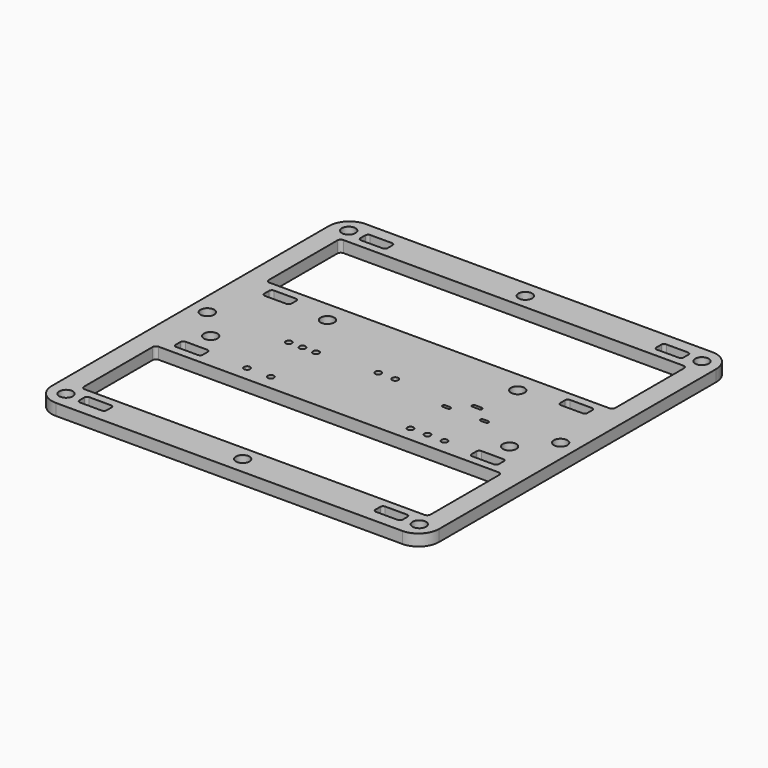
from build123d import *

# Parameters (mm, degrees)
F0_W        = 57
F0_H        = 57
F1_DEPTH    = 1.6
F4_R        = 0.45
F5_R        = 0.45
F6_R        = 0.45
F2_R        = 0.45
F7_DEPTH    = 4
F8_R        = 3
F9_R        = 1
F10_DEPTH   = 25
F12_DEPTH   = 5
F13_W       = 4
F13_H       = 1.7
F14_DEPTH   = 25
F15_R       = 0.4
F1_FACE_R   = 1
F1_FACE_R_2 = 0.45
F16_DEPTH   = 0.1


with BuildPart() as f1:
    # F0 (on Top) → F1 (new body)
    with BuildSketch(Plane.XY):
        with Locations((41.31729, 30.19701)):
            Rectangle(F0_W, F0_H)
    extrude(amount=F1_DEPTH)

    # F4 (on face) + F5 (on face) + F6 (on face) + F3 (on face) + F2 (on face) → F7 (cut)
    with BuildSketch(Plane.XY.offset(1.6)):
        with Locations((51.61729, 22.19701)):
            Circle(F4_R)
        with Locations((56.61729, 22.19701)):
            Circle(F4_R)
        with Locations((54.11729, 22.19701)):
            Circle(F4_R)
    with BuildSketch(Plane.XY.offset(1.6)):
        with Locations((40.06729, 30.69701)):
            Circle(F5_R)
        with Locations((42.56729, 30.69701)):
            Circle(F5_R)
    with BuildSketch(Plane.XY.offset(1.6)):
        with Locations((27.56729, 22.19701)):
            Circle(F6_R)
        with Locations((31.06729, 22.19701)):
            Circle(F6_R)
    with BuildSketch(Plane.XY.offset(1.6)):
        with BuildLine():
            ThreePointArc((53.81729, 31.34701), (53.56729, 31.09701), (53.81729, 30.84701))
            Line((53.81729, 30.84701), (54.81729, 30.84701))
            ThreePointArc((54.81729, 30.84701), (55.06729, 31.09701), (54.81729, 31.34701))
            Line((54.81729, 31.34701), (53.81729, 31.34701))
        make_face()
        with BuildLine():
            ThreePointArc((51.86729, 28.69701), (52.11729, 28.94701), (51.86729, 29.19701))
            Line((51.86729, 29.19701), (51.16729, 29.19701))
            ThreePointArc((51.16729, 29.19701), (50.91729, 28.94701), (51.16729, 28.69701))
            Line((51.16729, 28.69701), (51.86729, 28.69701))
        make_face()
        with BuildLine():
            Line((56.76729, 28.69701), (57.46729, 28.69701))
            ThreePointArc((57.46729, 28.69701), (57.71729, 28.94701), (57.46729, 29.19701))
            Line((57.46729, 29.19701), (56.76729, 29.19701))
            ThreePointArc((56.76729, 29.19701), (56.51729, 28.94701), (56.76729, 28.69701))
        make_face()
    with BuildSketch(Plane.XY.offset(1.6)):
        with Locations((27.31729, 30.19701)):
            Circle(F2_R)
        with Locations((29.31729, 30.19701)):
            Circle(F2_R)
        with Locations((31.31729, 30.19701)):
            Circle(F2_R)
    extrude(amount=-F7_DEPTH, mode=Mode.SUBTRACT)

    # F8
    f8_edges = [f1.edges().sort_by_distance(p)[0] for p in [
        (12.81729, 1.69701, 0.8),
        (69.81729, 1.69701, 0.8),
        (69.81729, 58.69701, 0.8),
        (12.81729, 58.69701, 0.8),
    ]]
    fillet(f8_edges, radius=F8_R)

    # F9 (on face) → F10 (cut)
    with BuildSketch(Plane.XY.offset(1.6)):
        with Locations((63.31729, 25.79701)):
            Circle(F9_R)
        with Locations((19.31729, 25.79701)):
            Circle(F9_R)
        with Locations((55.31729, 37.29701)):
            Circle(F9_R)
        with Locations((27.31729, 37.29701)):
            Circle(F9_R)
        with Locations((15.31729, 56.19701)):
            Circle(F9_R)
        with Locations((67.31729, 56.19701)):
            Circle(F9_R)
        with Locations((15.31729, 4.19701)):
            Circle(F9_R)
        with Locations((67.31729, 4.19701)):
            Circle(F9_R)
        with Locations((41.31729, 56.19701)):
            Circle(F9_R)
        with Locations((41.31729, 4.19701)):
            Circle(F9_R)
        with Locations((15.31729, 30.19701)):
            Circle(F9_R)
        with Locations((67.31729, 30.19701)):
            Circle(F9_R)
    extrude(amount=-F10_DEPTH, mode=Mode.SUBTRACT)

    # F11 (on face) → F12 (cut)
    with BuildSketch(Plane.XY.offset(1.6)):
        with BuildLine():
            ThreePointArc((66.81729, 19.49701), (66.670844, 19.850563), (66.31729, 19.99701))
            Line((66.31729, 19.99701), (16.31729, 19.99701))
            ThreePointArc((16.31729, 19.99701), (15.963737, 19.850563), (15.81729, 19.49701))
            Line((15.81729, 19.49701), (15.81729, 6.89701))
            ThreePointArc((15.81729, 6.89701), (15.963737, 6.543456), (16.31729, 6.39701))
            Line((16.31729, 6.39701), (66.31729, 6.39701))
            ThreePointArc((66.31729, 6.39701), (66.670844, 6.543456), (66.81729, 6.89701))
            Line((66.81729, 6.89701), (66.81729, 19.49701))
        make_face()
        with BuildLine():
            ThreePointArc((16.31729, 53.99701), (15.963737, 53.850563), (15.81729, 53.49701))
            Line((15.81729, 53.49701), (15.81729, 40.89701))
            ThreePointArc((15.81729, 40.89701), (15.963737, 40.543456), (16.31729, 40.39701))
            Line((16.31729, 40.39701), (66.31729, 40.39701))
            ThreePointArc((66.31729, 40.39701), (66.670844, 40.543456), (66.81729, 40.89701))
            Line((66.81729, 40.89701), (66.81729, 53.49701))
            ThreePointArc((66.81729, 53.49701), (66.670844, 53.850563), (66.31729, 53.99701))
            Line((66.31729, 53.99701), (16.31729, 53.99701))
        make_face()
    extrude(amount=-F12_DEPTH, mode=Mode.SUBTRACT)

    # F13 (on face) → F14 (cut)
    with BuildSketch(Plane.XY.offset(1.6)):
        with Locations((19.533351, 4.34701)):
            Rectangle(F13_W, F13_H)
        with Locations((63.101229, 4.34701)):
            Rectangle(F13_W, F13_H)
        with Locations((63.101229, 22.04701)):
            Rectangle(F13_W, F13_H)
        with Locations((19.533351, 22.04701)):
            Rectangle(F13_W, F13_H)
        with Locations((19.533351, 38.34701)):
            Rectangle(F13_W, F13_H)
        with Locations((19.533351, 56.04701)):
            Rectangle(F13_W, F13_H)
        with Locations((63.101229, 38.34701)):
            Rectangle(F13_W, F13_H)
        with Locations((63.101229, 56.04701)):
            Rectangle(F13_W, F13_H)
    extrude(amount=-F14_DEPTH, mode=Mode.SUBTRACT)

    # F15
    f15_edges = [f1.edges().sort_by_distance(p)[0] for p in [
        (17.533351, 56.89701, 0.8),
        (17.533351, 55.19701, 0.8),
        (21.533351, 55.19701, 0.8),
        (21.533351, 56.89701, 0.8),
        (21.533351, 39.19701, 0.8),
        (17.533351, 39.19701, 0.8),
        (17.533351, 37.49701, 0.8),
        (21.533351, 37.49701, 0.8),
        (65.101229, 55.19701, 0.8),
        (65.101229, 56.89701, 0.8),
        (61.101229, 56.89701, 0.8),
        (61.101229, 55.19701, 0.8),
        (61.101229, 37.49701, 0.8),
        (61.101229, 39.19701, 0.8),
        (65.101229, 39.19701, 0.8),
        (65.101229, 37.49701, 0.8),
        (21.533351, 21.19701, 0.8),
        (21.533351, 22.89701, 0.8),
        (17.533351, 22.89701, 0.8),
        (17.533351, 21.19701, 0.8),
        (61.101229, 21.19701, 0.8),
        (61.101229, 22.89701, 0.8),
        (65.101229, 22.89701, 0.8),
        (65.101229, 21.19701, 0.8),
        (65.101229, 3.49701, 0.8),
        (65.101229, 5.19701, 0.8),
        (61.101229, 5.19701, 0.8),
        (61.101229, 3.49701, 0.8),
        (17.533351, 3.49701, 0.8),
        (21.533351, 3.49701, 0.8),
        (21.533351, 5.19701, 0.8),
        (17.533351, 5.19701, 0.8),
    ]]
    fillet(f15_edges, radius=F15_R)


with BuildPart() as f16:
    # F1_face (on face) → F16 (new body)
    with BuildSketch(Plane(origin=(41.31729, 30.19701, 1.6), x_dir=(1, 0, 0), z_dir=(0, 0, 1))):
        with BuildLine():
            Line((25.5, 28.5), (-25.5, 28.5))
            ThreePointArc((-25.5, 28.5), (-27.62132, 27.62132), (-28.5, 25.5))
            Line((-28.5, 25.5), (-28.5, -25.5))
            ThreePointArc((-28.5, -25.5), (-27.62132, -27.62132), (-25.5, -28.5))
            Line((-25.5, -28.5), (25.5, -28.5))
            ThreePointArc((25.5, -28.5), (27.62132, -27.62132), (28.5, -25.5))
            Line((28.5, -25.5), (28.5, 25.5))
            ThreePointArc((28.5, 25.5), (27.62132, 27.62132), (25.5, 28.5))
        make_face()
        with BuildLine():
            Line((-20.183939, -26.7), (-23.383939, -26.7))
            ThreePointArc((-23.383939, -26.7), (-23.666782, -26.582843), (-23.783939, -26.3))
            Line((-23.783939, -26.3), (-23.783939, -25.4))
            ThreePointArc((-23.783939, -25.4), (-23.666782, -25.117157), (-23.383939, -25))
            Line((-23.383939, -25), (-20.183939, -25))
            ThreePointArc((-20.183939, -25), (-19.901096, -25.117157), (-19.783939, -25.4))
            Line((-19.783939, -25.4), (-19.783939, -26.3))
            ThreePointArc((-19.783939, -26.3), (-19.901096, -26.582843), (-20.183939, -26.7))
        make_face(mode=Mode.SUBTRACT)
        with Locations((-26, -26)):
            Circle(F1_FACE_R, mode=Mode.SUBTRACT)
        with Locations((-13.75, -8)):
            Circle(F1_FACE_R_2, mode=Mode.SUBTRACT)
        with Locations((-22, -4.4)):
            Circle(F1_FACE_R, mode=Mode.SUBTRACT)
        with Locations((-26, 0)):
            Circle(F1_FACE_R, mode=Mode.SUBTRACT)
        with Locations((-10.25, -8)):
            Circle(F1_FACE_R_2, mode=Mode.SUBTRACT)
        with Locations((0, -26)):
            Circle(F1_FACE_R, mode=Mode.SUBTRACT)
        with BuildLine():
            ThreePointArc((25.5, -23.3), (25.353553, -23.653553), (25, -23.8))
            Line((25, -23.8), (-25, -23.8))
            ThreePointArc((-25, -23.8), (-25.353553, -23.653553), (-25.5, -23.3))
            Line((-25.5, -23.3), (-25.5, -10.7))
            ThreePointArc((-25.5, -10.7), (-25.353553, -10.346447), (-25, -10.2))
            Line((-25, -10.2), (25, -10.2))
            ThreePointArc((25, -10.2), (25.353553, -10.346447), (25.5, -10.7))
            Line((25.5, -10.7), (25.5, -23.3))
        make_face(mode=Mode.SUBTRACT)
        with Locations((26, -26)):
            Circle(F1_FACE_R, mode=Mode.SUBTRACT)
        with Locations((10.3, -8)):
            Circle(F1_FACE_R_2, mode=Mode.SUBTRACT)
        with Locations((12.8, -8)):
            Circle(F1_FACE_R_2, mode=Mode.SUBTRACT)
        with BuildLine():
            Line((10.55, -1.5), (9.85, -1.5))
            ThreePointArc((9.85, -1.5), (9.6, -1.25), (9.85, -1))
            Line((9.85, -1), (10.55, -1))
            ThreePointArc((10.55, -1), (10.8, -1.25), (10.55, -1.5))
        make_face(mode=Mode.SUBTRACT)
        with Locations((15.3, -8)):
            Circle(F1_FACE_R_2, mode=Mode.SUBTRACT)
        with BuildLine():
            Line((16.15, -1.5), (15.45, -1.5))
            ThreePointArc((15.45, -1.5), (15.2, -1.25), (15.45, -1))
            Line((15.45, -1), (16.15, -1))
            ThreePointArc((16.15, -1), (16.4, -1.25), (16.15, -1.5))
        make_face(mode=Mode.SUBTRACT)
        with Locations((22, -4.4)):
            Circle(F1_FACE_R, mode=Mode.SUBTRACT)
        with Locations((-14, 0)):
            Circle(F1_FACE_R_2, mode=Mode.SUBTRACT)
        with Locations((-14, 7.1)):
            Circle(F1_FACE_R, mode=Mode.SUBTRACT)
        with Locations((-12, 0)):
            Circle(F1_FACE_R_2, mode=Mode.SUBTRACT)
        with Locations((-10, 0)):
            Circle(F1_FACE_R_2, mode=Mode.SUBTRACT)
        with Locations((-1.25, 0.5)):
            Circle(F1_FACE_R_2, mode=Mode.SUBTRACT)
        with Locations((-26, 26)):
            Circle(F1_FACE_R, mode=Mode.SUBTRACT)
        with Locations((0, 26)):
            Circle(F1_FACE_R, mode=Mode.SUBTRACT)
        with Locations((1.25, 0.5)):
            Circle(F1_FACE_R_2, mode=Mode.SUBTRACT)
        with BuildLine():
            ThreePointArc((12.5, 0.65), (12.25, 0.9), (12.5, 1.15))
            Line((12.5, 1.15), (13.5, 1.15))
            ThreePointArc((13.5, 1.15), (13.75, 0.9), (13.5, 0.65))
            Line((13.5, 0.65), (12.5, 0.65))
        make_face(mode=Mode.SUBTRACT)
        with Locations((26, 0)):
            Circle(F1_FACE_R, mode=Mode.SUBTRACT)
        with Locations((14, 7.1)):
            Circle(F1_FACE_R, mode=Mode.SUBTRACT)
        with BuildLine():
            ThreePointArc((-25.5, 23.3), (-25.353553, 23.653553), (-25, 23.8))
            Line((-25, 23.8), (25, 23.8))
            ThreePointArc((25, 23.8), (25.353553, 23.653553), (25.5, 23.3))
            Line((25.5, 23.3), (25.5, 10.7))
            ThreePointArc((25.5, 10.7), (25.353553, 10.346447), (25, 10.2))
            Line((25, 10.2), (-25, 10.2))
            ThreePointArc((-25, 10.2), (-25.353553, 10.346447), (-25.5, 10.7))
            Line((-25.5, 10.7), (-25.5, 23.3))
        make_face(mode=Mode.SUBTRACT)
        with Locations((26, 26)):
            Circle(F1_FACE_R, mode=Mode.SUBTRACT)
        with BuildLine():
            Line((-20.183939, -9), (-23.383939, -9))
            ThreePointArc((-23.383939, -9), (-23.666782, -8.882843), (-23.783939, -8.6))
            Line((-23.783939, -8.6), (-23.783939, -7.7))
            ThreePointArc((-23.783939, -7.7), (-23.666782, -7.417157), (-23.383939, -7.3))
            Line((-23.383939, -7.3), (-20.183939, -7.3))
            ThreePointArc((-20.183939, -7.3), (-19.901096, -7.417157), (-19.783939, -7.7))
            Line((-19.783939, -7.7), (-19.783939, -8.6))
            ThreePointArc((-19.783939, -8.6), (-19.901096, -8.882843), (-20.183939, -9))
        make_face(mode=Mode.SUBTRACT)
        with BuildLine():
            Line((23.783939, -25.4), (23.783939, -26.3))
            ThreePointArc((23.783939, -26.3), (23.666782, -26.582843), (23.383939, -26.7))
            Line((23.383939, -26.7), (20.183939, -26.7))
            ThreePointArc((20.183939, -26.7), (19.901096, -26.582843), (19.783939, -26.3))
            Line((19.783939, -26.3), (19.783939, -25.4))
            ThreePointArc((19.783939, -25.4), (19.901096, -25.117157), (20.183939, -25))
            Line((20.183939, -25), (23.383939, -25))
            ThreePointArc((23.383939, -25), (23.666782, -25.117157), (23.783939, -25.4))
        make_face(mode=Mode.SUBTRACT)
        with BuildLine():
            Line((19.783939, -8.6), (19.783939, -7.7))
            ThreePointArc((19.783939, -7.7), (19.901096, -7.417157), (20.183939, -7.3))
            Line((20.183939, -7.3), (23.383939, -7.3))
            ThreePointArc((23.383939, -7.3), (23.666782, -7.417157), (23.783939, -7.7))
            Line((23.783939, -7.7), (23.783939, -8.6))
            ThreePointArc((23.783939, -8.6), (23.666782, -8.882843), (23.383939, -9))
            Line((23.383939, -9), (20.183939, -9))
            ThreePointArc((20.183939, -9), (19.901096, -8.882843), (19.783939, -8.6))
        make_face(mode=Mode.SUBTRACT)
        with BuildLine():
            Line((-23.383939, 9), (-20.183939, 9))
            ThreePointArc((-20.183939, 9), (-19.901096, 8.882843), (-19.783939, 8.6))
            Line((-19.783939, 8.6), (-19.783939, 7.7))
            ThreePointArc((-19.783939, 7.7), (-19.901096, 7.417157), (-20.183939, 7.3))
            Line((-20.183939, 7.3), (-23.383939, 7.3))
            ThreePointArc((-23.383939, 7.3), (-23.666782, 7.417157), (-23.783939, 7.7))
            Line((-23.783939, 7.7), (-23.783939, 8.6))
            ThreePointArc((-23.783939, 8.6), (-23.666782, 8.882843), (-23.383939, 9))
        make_face(mode=Mode.SUBTRACT)
        with BuildLine():
            Line((-20.183939, 25), (-23.383939, 25))
            ThreePointArc((-23.383939, 25), (-23.666782, 25.117157), (-23.783939, 25.4))
            Line((-23.783939, 25.4), (-23.783939, 26.3))
            ThreePointArc((-23.783939, 26.3), (-23.666782, 26.582843), (-23.383939, 26.7))
            Line((-23.383939, 26.7), (-20.183939, 26.7))
            ThreePointArc((-20.183939, 26.7), (-19.901096, 26.582843), (-19.783939, 26.3))
            Line((-19.783939, 26.3), (-19.783939, 25.4))
            ThreePointArc((-19.783939, 25.4), (-19.901096, 25.117157), (-20.183939, 25))
        make_face(mode=Mode.SUBTRACT)
        with BuildLine():
            Line((23.783939, 8.6), (23.783939, 7.7))
            ThreePointArc((23.783939, 7.7), (23.666782, 7.417157), (23.383939, 7.3))
            Line((23.383939, 7.3), (20.183939, 7.3))
            ThreePointArc((20.183939, 7.3), (19.901096, 7.417157), (19.783939, 7.7))
            Line((19.783939, 7.7), (19.783939, 8.6))
            ThreePointArc((19.783939, 8.6), (19.901096, 8.882843), (20.183939, 9))
            Line((20.183939, 9), (23.383939, 9))
            ThreePointArc((23.383939, 9), (23.666782, 8.882843), (23.783939, 8.6))
        make_face(mode=Mode.SUBTRACT)
        with BuildLine():
            Line((23.383939, 25), (20.183939, 25))
            ThreePointArc((20.183939, 25), (19.901096, 25.117157), (19.783939, 25.4))
            Line((19.783939, 25.4), (19.783939, 26.3))
            ThreePointArc((19.783939, 26.3), (19.901096, 26.582843), (20.183939, 26.7))
            Line((20.183939, 26.7), (23.383939, 26.7))
            ThreePointArc((23.383939, 26.7), (23.666782, 26.582843), (23.783939, 26.3))
            Line((23.783939, 26.3), (23.783939, 25.4))
            ThreePointArc((23.783939, 25.4), (23.666782, 25.117157), (23.383939, 25))
        make_face(mode=Mode.SUBTRACT)
    extrude(amount=F16_DEPTH)


solid = Compound([f1.part, f16.part])
